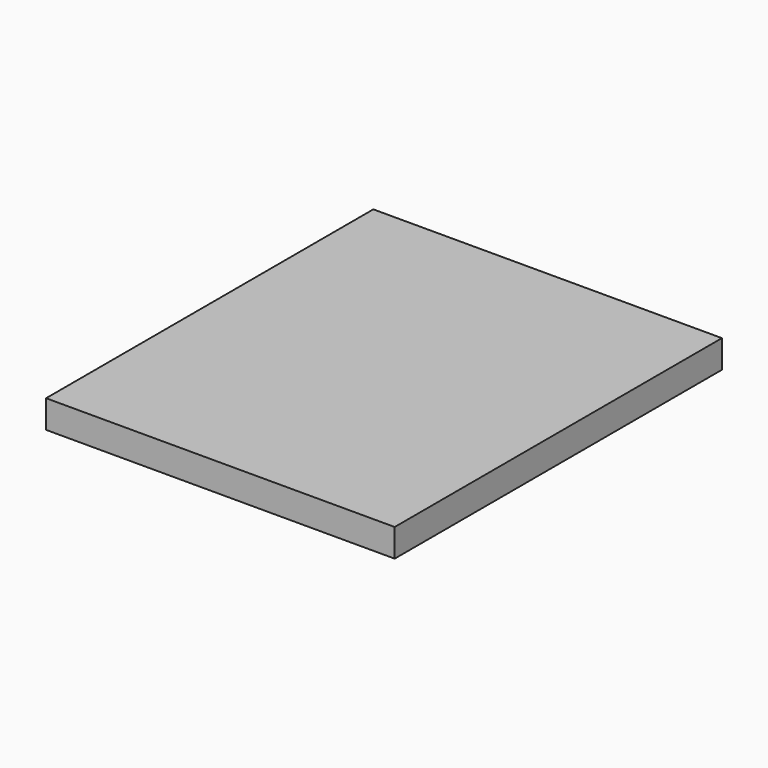
from build123d import *

# Parameters (mm, degrees)
SKETCH_W  = 150
SKETCH_H  = 176
PAD_DEPTH = 12


with BuildPart() as part:
    # Sketch → Pad (new body)
    with BuildSketch(Plane.XY):
        with Locations((75, 88)):
            Rectangle(SKETCH_W, SKETCH_H)
    extrude(amount=PAD_DEPTH)


solid = part.part
